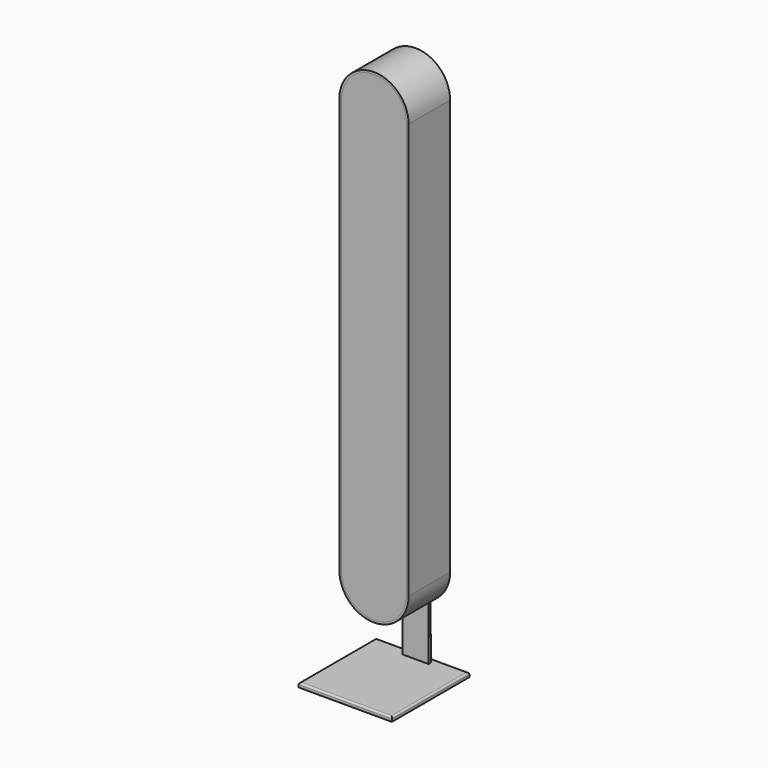
from build123d import *

# Parameters (mm, degrees)
F1_DEPTH  = 152.4
F3_DEPTH  = 152.4
F4_W      = 76.2
F4_H      = 381
F5_DEPTH  = 12.7
F7_DEPTH  = 139.701
F8_R      = 5.08
F9_W      = 273.5587656498
F9_H      = 283.9249372482
F10_DEPTH = 12.7
F11_R     = 5.08


with BuildPart() as f1:
    # F0 (on Front) → F1 (new body)
    with BuildSketch(Plane.XZ):
        with BuildLine():
            ThreePointArc((101.6, 609.6), (0, 711.2), (-101.6, 609.6))
            Line((-101.6, 609.6), (-101.6, -609.6))
            ThreePointArc((-101.6, -609.6), (0, -711.2), (101.6, -609.6))
            Line((101.6, -609.6), (101.6, 609.6))
        make_face()
        with BuildLine():
            Line((-95.2500030398, -609.6), (-95.2500030398, 609.6))
            ThreePointArc((-95.2500030398, 609.6), (0, 704.8500030398), (95.2500030398, 609.6))
            Line((95.2500030398, 609.6), (95.2500030398, -609.6))
            ThreePointArc((95.2500030398, -609.6), (0, -704.8500030398), (-95.2500030398, -609.6))
        make_face(mode=Mode.SUBTRACT)
    extrude(amount=-F1_DEPTH)


with BuildPart() as f3:
    # F2 (on face) → F3 (new body)
    with BuildSketch(Plane.XZ):
        with BuildLine():
            ThreePointArc((-95.2500030398, -609.6), (0, -704.8500030398), (95.2500030398, -609.6))
            Line((95.2500030398, -609.6), (95.2500030398, 609.6))
            ThreePointArc((95.2500030398, 609.6), (0, 704.8500030398), (-95.2500030398, 609.6))
            Line((-95.2500030398, 609.6), (-95.2500030398, -609.6))
        make_face()
    extrude(amount=-F3_DEPTH)


with BuildPart() as f5:
    # F4 (on face) → F5 (new body)
    with BuildSketch(Plane(origin=(0, 152.4, 0), x_dir=(-1, 0, 0), z_dir=(0, 1, 0))):
        with Locations((0, -677.4023830414)):
            Rectangle(F4_W, F4_H)
    extrude(amount=F5_DEPTH)

    # F6 (on face) → F7 (cut, through all)
    with BuildSketch(Plane.YZ.offset(38.1)):
        Polygon((158.75, -486.9023830414), (165.1, -867.9023830414), (165.1, -486.9023830414), align=None)
    extrude(amount=-F7_DEPTH, mode=Mode.SUBTRACT)

    # F8
    f8_edges = [f5.edges().sort_by_distance(p)[0] for p in [
        (38.1, 161.925, -677.402383),
        (-38.1, 161.925, -677.402383),
        (0, 158.75, -486.902383),
    ]]
    fillet(f8_edges, radius=F8_R)

    # F9 (on face) → F10 (join)
    with BuildSketch(Plane(origin=(0, 0, -867.9023830414), x_dir=(1, 0, 0), z_dir=(0, 0, -1))):
        with Locations((0, -36.7056280375)):
            Rectangle(F9_W, F9_H)
    extrude(amount=F10_DEPTH)

    # F11
    f11_edges = [f5.edges().sort_by_distance(p)[0] for p in [
        (-136.779383, 36.705628, -867.902383),
        (0, -105.256841, -867.902383),
        (136.779383, 36.705628, -867.902383),
        (0, 178.668097, -867.902383),
    ]]
    fillet(f11_edges, radius=F11_R)


solid = Compound([f1.part, f3.part, f5.part])
